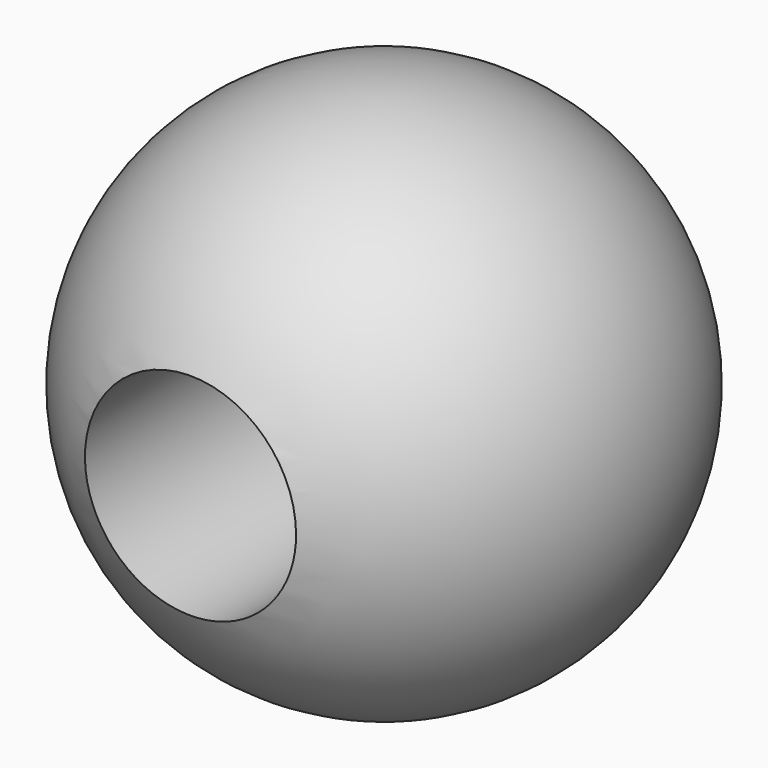
from build123d import *

# Parameters (mm, degrees)
F2_R          = 4
F3_DEPTH      = 10
F3_DEPTH_BACK = 10


with BuildPart() as f1:
    # F0 (on Front) → F1 (revolve)
    with BuildSketch(Plane.XZ):
        with BuildLine():
            Line((0, -10), (0, 10))
            ThreePointArc((0, 10), (-10, 0), (0, -10))
        make_face()
    revolve(axis=Axis((0, 0, 0), (0, 0, -1)))

    # F2 (on Front) → F3 (cut, two sides)
    with BuildSketch(Plane.XZ) as f3_sk:
        Circle(F2_R)
    extrude(amount=F3_DEPTH, mode=Mode.SUBTRACT)
    extrude(f3_sk.sketch, amount=-F3_DEPTH_BACK, mode=Mode.SUBTRACT)


solid = f1.part
